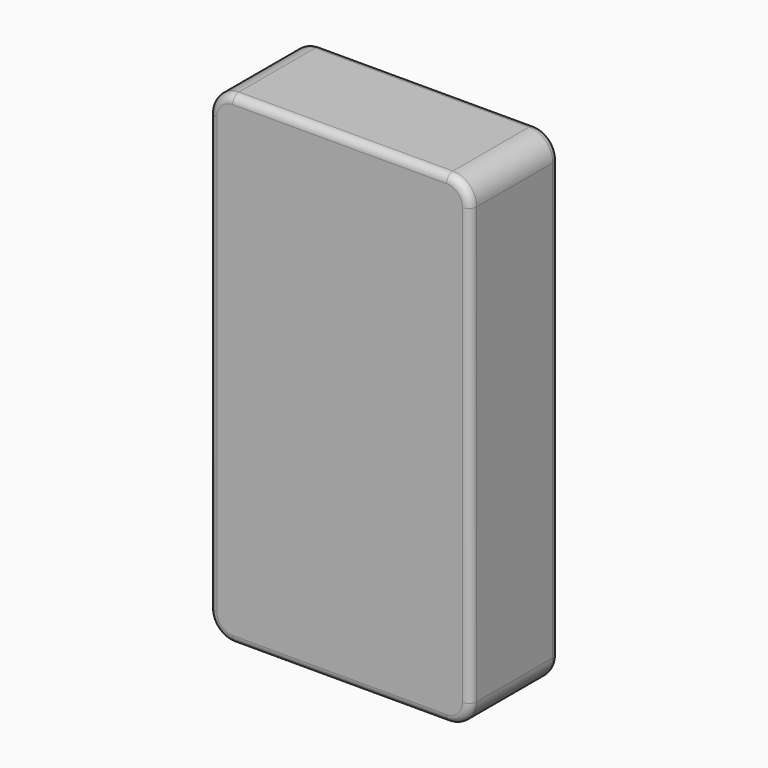
from build123d import *

# Parameters (mm, degrees)
F0_W     = 3.3
F0_H     = 6.1
F1_DEPTH = 1.4
F2_R     = 0.3
F3_R     = 0.1


with BuildPart() as f1:
    # F0 (on Front) → F1 (new body)
    with BuildSketch(Plane.XZ):
        Rectangle(F0_W, F0_H)
    extrude(amount=F1_DEPTH)

    # F2
    f2_edges = [f1.edges().sort_by_distance(p)[0] for p in [
        (1.65, -0.7, 3.05),
        (-1.65, -0.7, 3.05),
        (-1.65, -0.7, -3.05),
        (1.65, -0.7, -3.05),
    ]]
    fillet(f2_edges, radius=F2_R)

    # F3
    f3_edges = [f1.edges().sort_by_distance(p)[0] for p in [
        (0, -1.4, 3.05),
        (1.562132, -1.4, 2.962132),
        (-1.562132, -1.4, 2.962132),
        (1.65, -1.4, 0),
        (-1.65, -1.4, 0),
        (1.562132, -1.4, -2.962132),
        (-1.562132, -1.4, -2.962132),
        (0, -1.4, -3.05),
        (0, 0, 3.05),
        (1.562132, 0, 2.962132),
        (-1.562132, 0, 2.962132),
        (1.65, 0, 0),
        (-1.65, 0, 0),
        (1.562132, 0, -2.962132),
        (-1.562132, 0, -2.962132),
        (0, 0, -3.05),
    ]]
    fillet(f3_edges, radius=F3_R)


solid = f1.part
